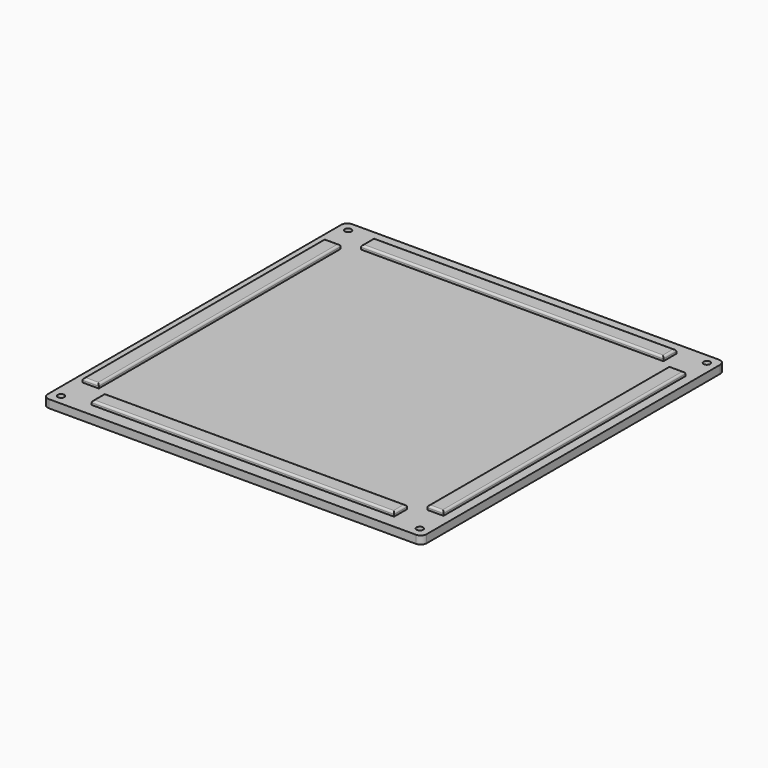
from build123d import *

# Parameters (mm, degrees)
SKETCH_W      = 188
SKETCH_H      = 188
PAD_DEPTH     = 4
SKETCH001_R   = 1.625
POCKET_DEPTH  = 4.001
FILLET_R      = 3
SKETCH003_W   = 150
SKETCH003_H   = 8
SKETCH003_W_2 = 8
SKETCH003_H_2 = 150
PAD001_DEPTH  = 2
FILLET001_R   = 1


with BuildPart() as part:
    # Sketch → Pad (new body)
    with BuildSketch(Plane.XY):
        Rectangle(SKETCH_W, SKETCH_H)
    extrude(amount=PAD_DEPTH)

    # Sketch001 (on Face6 of Pad) → Pocket (cut, through all)
    with BuildSketch(Plane.XY.offset(4)):
        with Locations((-89, 89)):
            Circle(SKETCH001_R)
        with Locations((89, 89)):
            Circle(SKETCH001_R)
        with Locations((89, -89)):
            Circle(SKETCH001_R)
        with Locations((-89, -89)):
            Circle(SKETCH001_R)
    extrude(amount=-POCKET_DEPTH, mode=Mode.SUBTRACT)

    # Fillet
    fillet_edges = [part.edges().sort_by_distance(p)[0] for p in [
        (-94, 94, 2),
        (94, 94, 2),
        (-94, -94, 2),
        (94, -94, 2),
    ]]
    fillet(fillet_edges, radius=FILLET_R)

    # Sketch003 (on Face5 of Fillet) → Pad001 (join)
    with BuildSketch(Plane.XY.offset(4)):
        with Locations((0, -83.5)):
            Rectangle(SKETCH003_W, SKETCH003_H)
        with Locations((0, 83.5)):
            Rectangle(SKETCH003_W, SKETCH003_H)
        with Locations((-85.5, 0)):
            Rectangle(SKETCH003_W_2, SKETCH003_H_2)
        with Locations((85.5, 0)):
            Rectangle(SKETCH003_W_2, SKETCH003_H_2)
    extrude(amount=PAD001_DEPTH)

    # Fillet001
    fillet001_edges = [part.edges().sort_by_distance(p)[0] for p in [
        (-85.5, 75, 6),
        (-81.5, 0, 6),
        (-85.5, -75, 6),
        (-89.5, 0, 6),
        (0, -79.5, 6),
        (75, -83.5, 6),
        (0, -87.5, 6),
        (-75, -83.5, 6),
        (85.5, 75, 6),
        (89.5, 0, 6),
        (85.5, -75, 6),
        (81.5, 0, 6),
        (0, 87.5, 6),
        (75, 83.5, 6),
        (0, 79.5, 6),
        (-75, 83.5, 6),
    ]]
    fillet(fillet001_edges, radius=FILLET001_R)


solid = part.part
